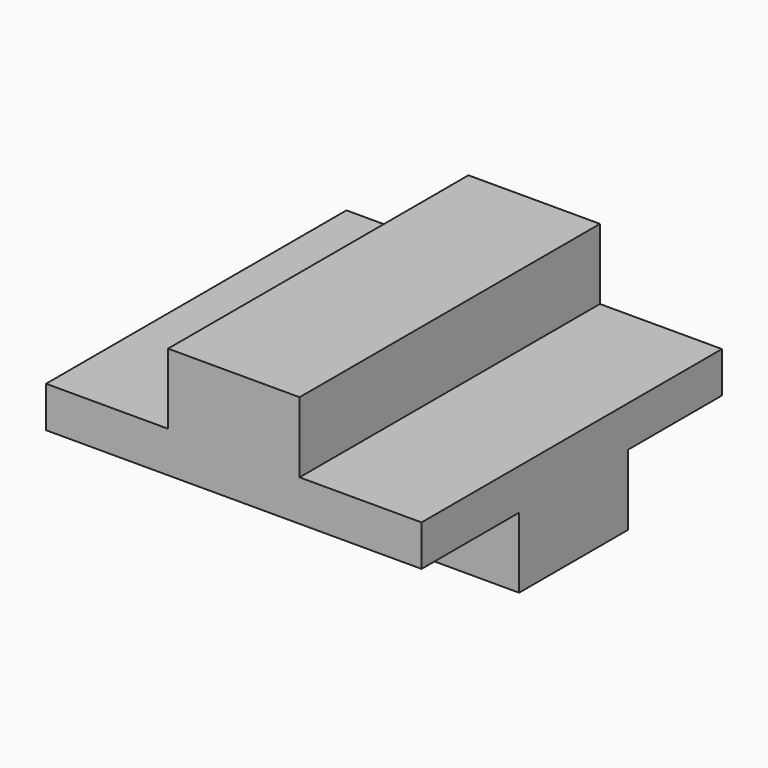
from build123d import *

# Parameters (mm, degrees)
F0_W     = 104.775
F0_H     = 104.775
F1_DEPTH = 50.8
F2_W     = 34.036
F2_H     = 19.685
F3_DEPTH = 104.775
F4_W     = 34.036
F4_H     = 19.6899231523
F4_H_2   = 19.685
F5_DEPTH = 158.242


with BuildPart() as f1:
    # F0 (on Top) → F1 (new body)
    with BuildSketch(Plane.XY):
        with Locations((52.3875, 52.3875)):
            Rectangle(F0_W, F0_H)
    extrude(amount=F1_DEPTH)

    # F2 (on face) → F3 (cut)
    with BuildSketch(Plane.XZ):
        with Locations((87.757, 40.9575)):
            Rectangle(F2_W, F2_H)
        with Locations((17.018, 40.9575)):
            Rectangle(F2_W, F2_H)
    extrude(amount=-F3_DEPTH, mode=Mode.SUBTRACT)

    # F4 (on Right) → F5 (cut)
    with BuildSketch(Plane.YZ):
        with Locations((89.075582438, 9.8449615762)):
            Rectangle(F4_W, F4_H)
        with Locations((17.018, 9.8425)):
            Rectangle(F4_W, F4_H_2)
    extrude(amount=F5_DEPTH, mode=Mode.SUBTRACT)


solid = f1.part
